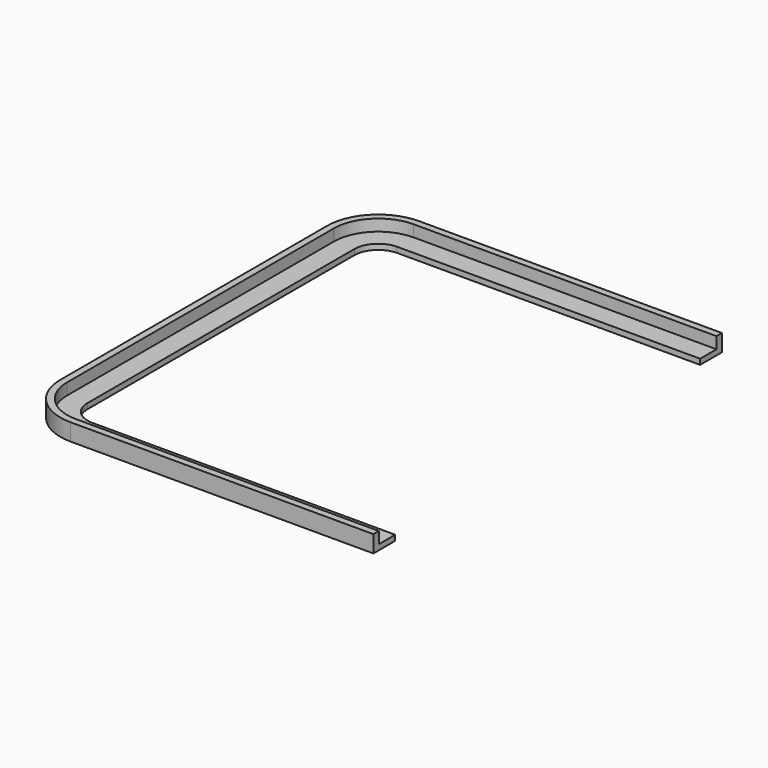
from build123d import *

# Parameters (mm, degrees)
F1_DEPTH = 1.6
F2_DEPTH = 5


with BuildPart() as f1:
    # F0 (on Top) → F1 (new body)
    with BuildSketch(Plane.XY):
        with BuildLine():
            Line((51, 62), (-38, 62))
            ThreePointArc((-38, 62), (-47.192388, 58.192388), (-51, 49))
            Line((-51, 49), (-51, -49))
            ThreePointArc((-51, -49), (-47.192388, -58.192388), (-38, -62))
            Line((-38, -62), (51, -62))
            Line((51, -62), (51, -56))
            Line((51, -56), (-38, -56))
            ThreePointArc((-38, -56), (-42.949747, -53.949747), (-45, -49))
            Line((-45, -49), (-45, 49))
            ThreePointArc((-45, 49), (-42.949747, 53.949747), (-38, 56))
            Line((-38, 56), (51, 56))
            Line((51, 56), (51, 62))
        make_face()
    extrude(amount=F1_DEPTH)

    # F0 (on Top) → F2 (join)
    with BuildSketch(Plane.XY):
        with BuildLine():
            ThreePointArc((-51, 49), (-47.192388, 58.192388), (-38, 62))
            Line((-38, 62), (51, 62))
            Line((51, 62), (51, 64))
            Line((51, 64), (-38, 64))
            ThreePointArc((-38, 64), (-48.606602, 59.606602), (-53, 49))
            Line((-53, 49), (-53, -49))
            ThreePointArc((-53, -49), (-48.606602, -59.606602), (-38, -64))
            Line((-38, -64), (51, -64))
            Line((51, -64), (51, -62))
            Line((51, -62), (-38, -62))
            ThreePointArc((-38, -62), (-47.192388, -58.192388), (-51, -49))
            Line((-51, -49), (-51, 49))
        make_face()
    extrude(amount=F2_DEPTH)


solid = f1.part
